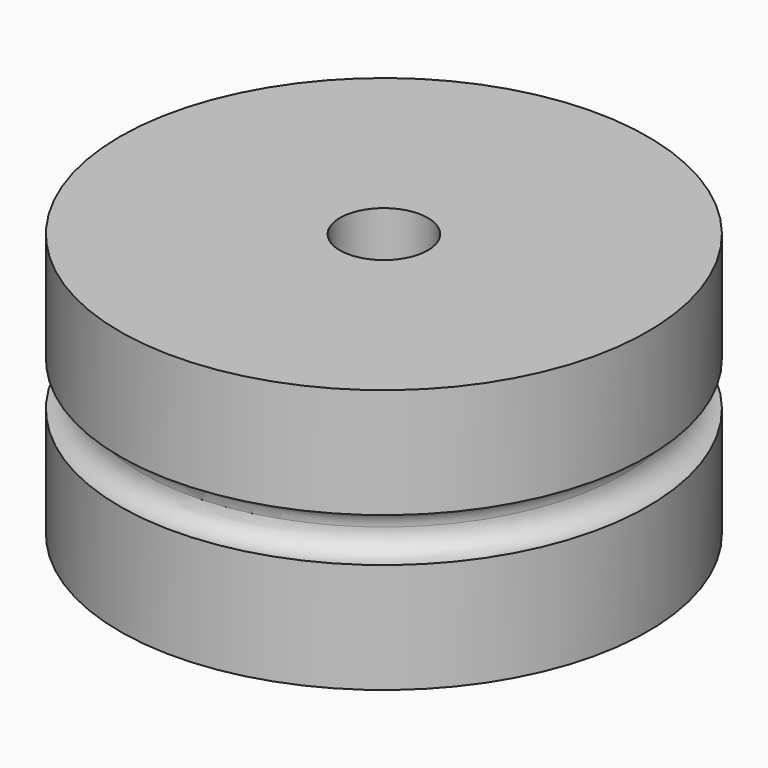
from build123d import *

# Parameters (mm, degrees)
F2_R     = 3.175
F3_DEPTH = 25.4


with BuildPart() as f1:
    # F0 (on Front) → F1 (revolve)
    with BuildSketch(Plane.XZ):
        with BuildLine():
            Line((0, -19.05), (0, 0))
            Line((0, 0), (-19.05, 0))
            Line((-19.05, 0), (-19.05, -7.9375))
            ThreePointArc((-19.05, -7.9375), (-17.927468, -8.402468), (-17.4625, -9.525))
            ThreePointArc((-17.4625, -9.525), (-17.927468, -10.647532), (-19.05, -11.1125))
            Line((-19.05, -11.1125), (-19.05, -19.05))
            Line((-19.05, -19.05), (0, -19.05))
        make_face()
    revolve(axis=Axis((0, 0, -9.525), (0, 0, -1)))

    # F2 (on face) → F3 (cut)
    with BuildSketch(Plane.XY):
        Circle(F2_R)
    extrude(amount=-F3_DEPTH, mode=Mode.SUBTRACT)


solid = f1.part
